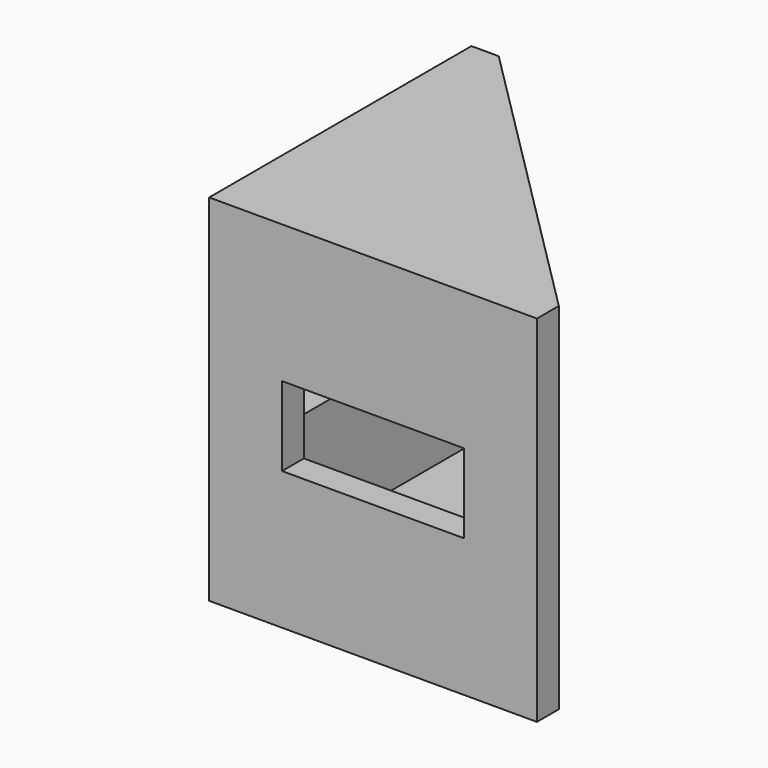
from build123d import *

# Parameters (mm, degrees)
F1_DEPTH = 3
F3_DEPTH = 16.5
F5_W     = 20
F5_H     = 8.7
F6_DEPTH = 25
F7_W     = 20
F7_H     = 8.5
F8_DEPTH = 25


with BuildPart() as f1:
    # F0 (on Top) → F1 (new body)
    with BuildSketch(Plane.XY):
        Polygon((0, 36), (0, 0), (36, 0), (36, 3), (3, 36), align=None)
    extrude(amount=F1_DEPTH)

    # F2 (on face) → F3 (join)
    with BuildSketch(Plane.XY.offset(3)):
        Polygon((3, 3), (3, 36), (0, 36), (0, 0), (36, 0), (36, 3), align=None)
    extrude(amount=F3_DEPTH)

    # F4: F1 across face


with BuildPart() as f1_1:
    add(f1.part)
    add(f1.part.mirror(Plane(origin=(10.1086956522, 10.1086956522, 19.5), x_dir=(1, 0, 0), z_dir=(0, 0, 1))))

    # F5 (on face) → F6 (cut)
    with BuildSketch(Plane.XZ):
        with Locations((18, 19.5)):
            Rectangle(F5_W, F5_H)
    extrude(amount=-F6_DEPTH, mode=Mode.SUBTRACT)

    # F7 (on face) → F8 (cut)
    with BuildSketch(Plane(origin=(0, 0, 0), x_dir=(0, -1, 0), z_dir=(-1, 0, 0))):
        with Locations((-18, 19.5)):
            Rectangle(F7_W, F7_H)
    extrude(amount=-F8_DEPTH, mode=Mode.SUBTRACT)


solid = f1_1.part
